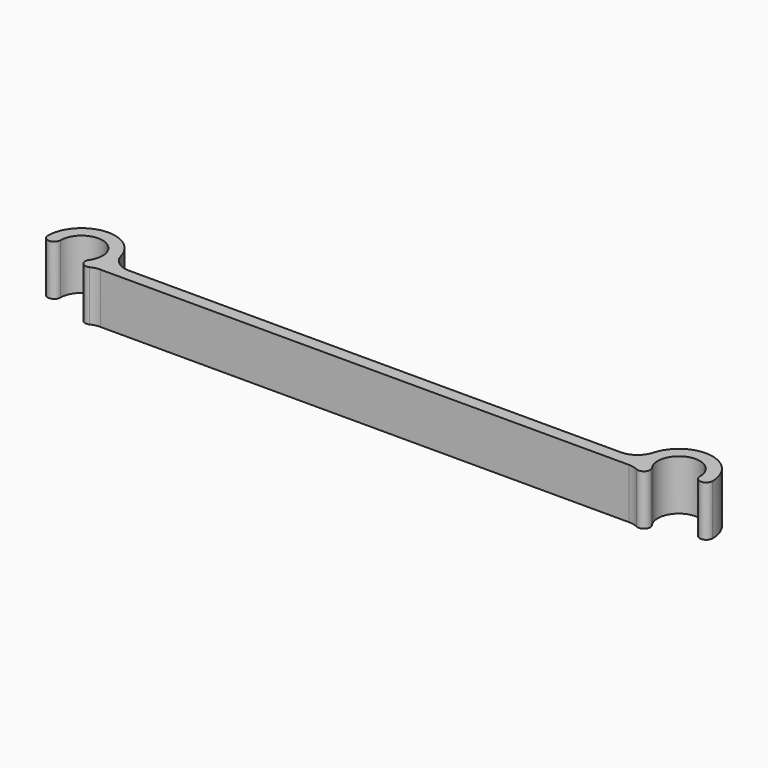
from build123d import *

# Parameters (mm, degrees)
F1_DEPTH = 12
F2_R     = 5


with BuildPart() as f1:
    # F0 (on Top) → F1 (new body)
    with BuildSketch(Plane.XY):
        with BuildLine():
            ThreePointArc((-76, 0), (-69.499286, 4.769471), (-66.900857, -2.863045))
            ThreePointArc((-66.900857, -2.863045), (-66.530028, -4.951702), (-64.441372, -4.580873))
            Line((-64.441372, -4.580873), (64.441372, -4.580873))
            ThreePointArc((64.441372, -4.580873), (66.530028, -4.951702), (66.900857, -2.863045))
            ThreePointArc((66.900857, -2.863045), (69.499286, 4.769471), (76, 0))
            ThreePointArc((76, 0), (77.5, -1.5), (79, 0))
            ThreePointArc((79, 0), (70.205638, 7.960464), (63.157753, -1.580873))
            Line((63.157753, -1.580873), (-63.157753, -1.580873))
            ThreePointArc((-63.157753, -1.580873), (-70.205638, 7.960464), (-79, 0))
            ThreePointArc((-79, 0), (-77.5, -1.5), (-76, 0))
        make_face()
    extrude(amount=F1_DEPTH)

    # F2
    f2_edges = [f1.edges().sort_by_distance(p)[0] for p in [
        (-63.157753, -1.580873, 6),
        (63.157753, -1.580873, 6),
        (64.441372, -4.580873, 6),
        (-64.441372, -4.580873, 6),
    ]]
    fillet(f2_edges, radius=F2_R)


solid = f1.part
